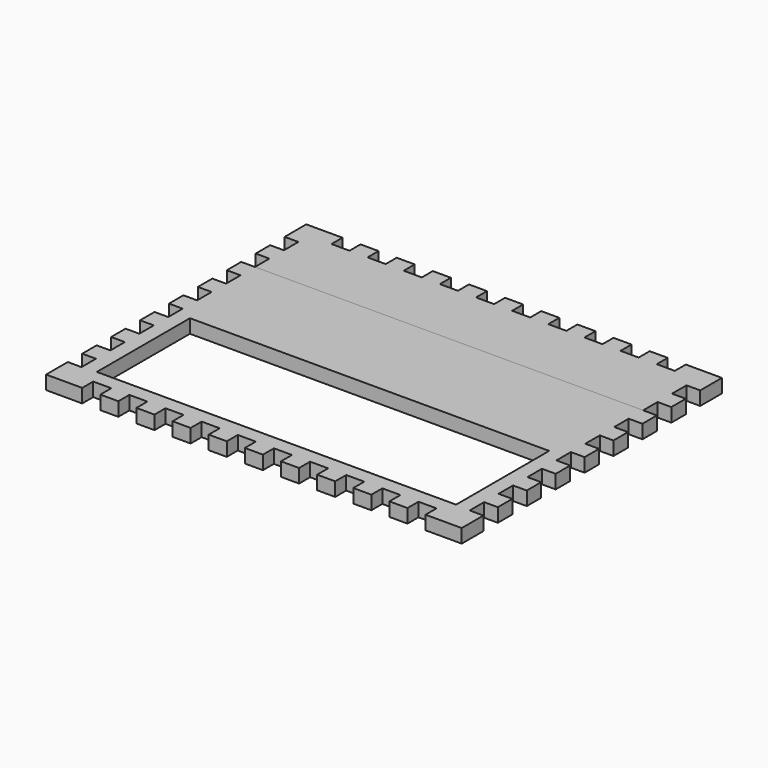
from build123d import *

# Parameters (mm, degrees)
F0_W     = 252.476
F0_H     = 81.788
F1_DEPTH = 9.652
F2_DEPTH = 9.652


with BuildPart() as f1:
    # F0 (on Top) → F1 (new body)
    with BuildSketch(Plane.XY):
        Polygon((282.448, -57.15), (9.652, -57.15), (0, -57.15), (0, -69.85), (9.652, -69.85), (9.652, -82.55), (0, -82.55), (0, -95.25), (9.652, -95.25), (9.652, -107.95), (0, -107.95), (0, -120.65), (9.652, -120.65), (9.652, -133.35), (0, -133.35), (0, -146.05), (9.652, -146.05), (9.652, -158.75), (0, -158.75), (0, -171.45), (9.652, -171.45), (9.652, -184.15), (0, -184.15), (0, -196.85), (9.652, -196.85), (9.652, -209.55), (0, -209.55), (0, -228.6), (25.4, -228.6), (25.4, -218.948), (38.1, -218.948), (38.1, -228.6), (50.8, -228.6), (50.8, -218.948), (63.5, -218.948), (63.5, -228.6), (76.2, -228.6), (76.2, -218.948), (88.9, -218.948), (88.9, -228.6), (101.6, -228.6), (101.6, -218.948), (114.3, -218.948), (114.3, -228.6), (127, -228.6), (127, -218.948), (139.7, -218.948), (139.7, -228.6), (152.4, -228.6), (152.4, -218.948), (165.1, -218.948), (165.1, -228.6), (177.8, -228.6), (177.8, -218.948), (190.5, -218.948), (190.5, -228.6), (203.2, -228.6), (203.2, -218.948), (215.9, -218.948), (215.9, -228.6), (228.6, -228.6), (228.6, -218.948), (241.3, -218.948), (241.3, -228.6), (254, -228.6), (254, -218.948), (266.7, -218.948), (266.7, -228.6), (292.1, -228.6), (292.1, -209.55), (282.448, -209.55), (282.448, -196.85), (292.1, -196.85), (292.1, -184.15), (282.448, -184.15), (282.448, -171.45), (292.1, -171.45), (292.1, -158.75), (282.448, -158.75), (282.448, -146.05), (292.1, -146.05), (292.1, -133.35), (282.448, -133.35), (282.448, -120.65), (292.1, -120.65), (292.1, -107.95), (282.448, -107.95), (282.448, -95.25), (292.1, -95.25), (292.1, -82.55), (282.448, -82.55), (282.448, -69.85), (292.1, -69.85), (292.1, -57.15), align=None)
        with Locations((146.05, -167.894)):
            Rectangle(F0_W, F0_H, mode=Mode.SUBTRACT)
    extrude(amount=F1_DEPTH)


with BuildPart() as f2:
    # F0 (on Top) → F2 (new body)
    with BuildSketch(Plane.XY):
        Polygon((25.4, 0), (0, 0), (0, -19.05), (9.652, -19.05), (9.652, -31.75), (0, -31.75), (0, -44.45), (9.652, -44.45), (9.652, -57.15), (282.448, -57.15), (282.448, -44.45), (292.1, -44.45), (292.1, -31.75), (282.448, -31.75), (282.448, -19.05), (292.1, -19.05), (292.1, 0), (266.7, 0), (266.7, -9.652), (254, -9.652), (254, 0), (241.3, 0), (241.3, -9.652), (228.6, -9.652), (228.6, 0), (215.9, 0), (215.9, -9.652), (203.2, -9.652), (203.2, 0), (190.5, 0), (190.5, -9.652), (177.8, -9.652), (177.8, 0), (165.1, 0), (165.1, -9.652), (152.4, -9.652), (152.4, 0), (139.7, 0), (139.7, -9.652), (127, -9.652), (127, 0), (114.3, 0), (114.3, -9.652), (101.6, -9.652), (101.6, 0), (88.9, 0), (88.9, -9.652), (76.2, -9.652), (76.2, 0), (63.5, 0), (63.5, -9.652), (50.8, -9.652), (50.8, 0), (38.1, 0), (38.1, -9.652), (25.4, -9.652), align=None)
    extrude(amount=F2_DEPTH)


solid = Compound([f1.part, f2.part])
